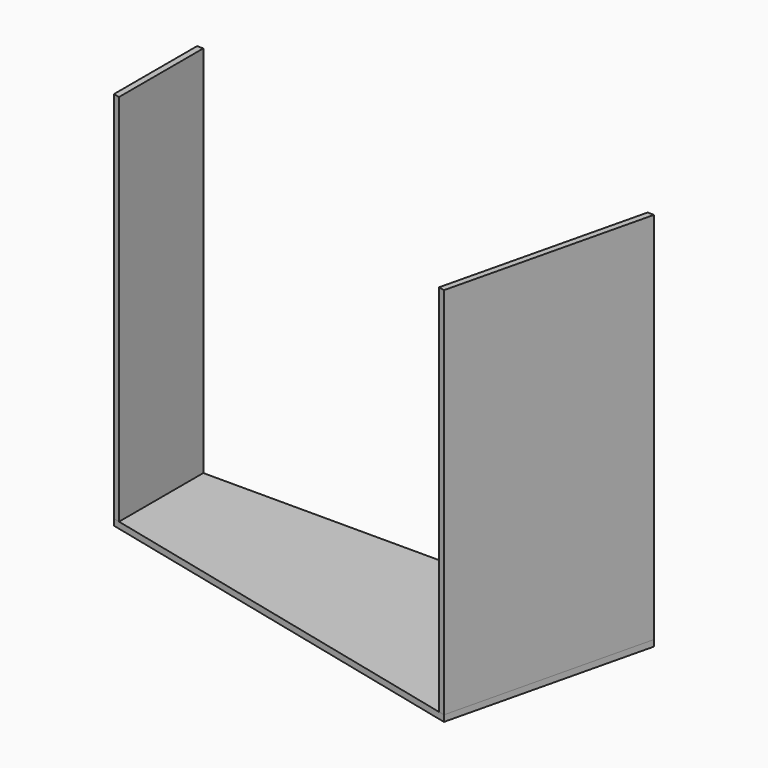
from build123d import *

# Parameters (mm, degrees)
F1_DEPTH = 15
F3_DEPTH = 900


with BuildPart() as f1:
    # F0 (on Top) → F1 (new body)
    with BuildSketch(Plane.XY):
        Polygon((550, 0), (-550, 0), (-550, -250), (433.220768, -486.17138), align=None)
    extrude(amount=F1_DEPTH)


with BuildPart() as f3:
    # F2 (on face) → F3 (new body)
    with BuildSketch(Plane.XY.offset(15)):
        Polygon((-535, 0), (-550, 0), (-550, -250), (-535, -253.603027), align=None)
        Polygon((433.220768, -486.17138), (550, 0), (534.573341, 0), (418.635627, -482.668003), align=None)
    extrude(amount=F3_DEPTH)


solid = Compound([f1.part, f3.part])
